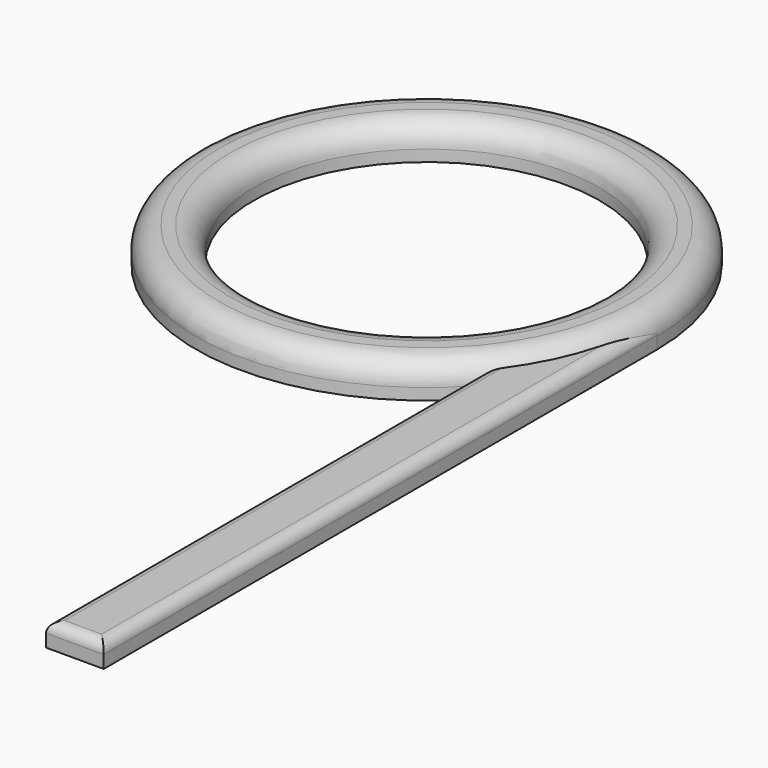
from build123d import *

# Parameters (mm, degrees)
SKETCH_R     = 20
SKETCH_R_2   = 15
PAD_DEPTH    = 3
FILLET_R     = 2
PAD001_DEPTH = 2
FILLET001_R  = 0.9


with BuildPart() as part:
    # Sketch → Pad (new body)
    with BuildSketch(Plane.XY):
        with Locations((-20, 0)):
            Circle(SKETCH_R)
        with Locations((-20, 0)):
            Circle(SKETCH_R_2, mode=Mode.SUBTRACT)
    extrude(amount=PAD_DEPTH)

    # Fillet
    fillet_edges = [part.edges().sort_by_distance(p)[0] for p in [
        (-40, 0, 3),
        (-35, 0, 3),
    ]]
    fillet(fillet_edges, radius=FILLET_R)

    # Sketch001 → Pad001 (join)
    with BuildSketch(Plane.XY):
        Polygon((0, 0), (0, -60), (-5, -60), (-5, -8.660254), align=None)
    extrude(amount=PAD001_DEPTH)

    # Fillet001
    fillet001_edges = [part.edges().sort_by_distance(p)[0] for p in [
        (-5, -36.410028, 2),
        (0, -30, 2),
        (-2.5, -60, 2),
    ]]
    fillet(fillet001_edges, radius=FILLET001_R)


solid = part.part
